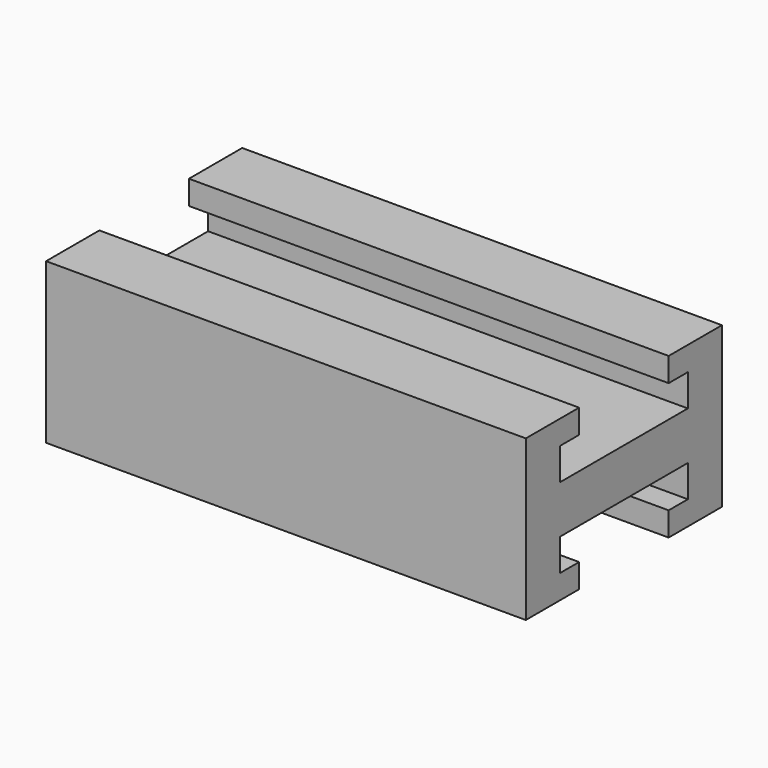
from build123d import *

# Parameters (mm, degrees)
F1_DEPTH = 60


with BuildPart() as f1:
    # F0 (on Right) → F1 (new body)
    with BuildSketch(Plane.YZ):
        Polygon((15.328453, -5), (15.328453, 5), (15.328453, 15), (7, 15), (7, 12), (10, 12), (10, 8), (-10, 8), (-10, 12), (-7, 12), (-7, 15), (-15.328453, 15), (-15.328453, 5), (-15.328453, -5), (-7, -5), (-7, -2), (-10, -2), (-10, 2), (10, 2), (10, -2), (7, -2), (7, -5), align=None)
    extrude(amount=F1_DEPTH)


solid = f1.part
